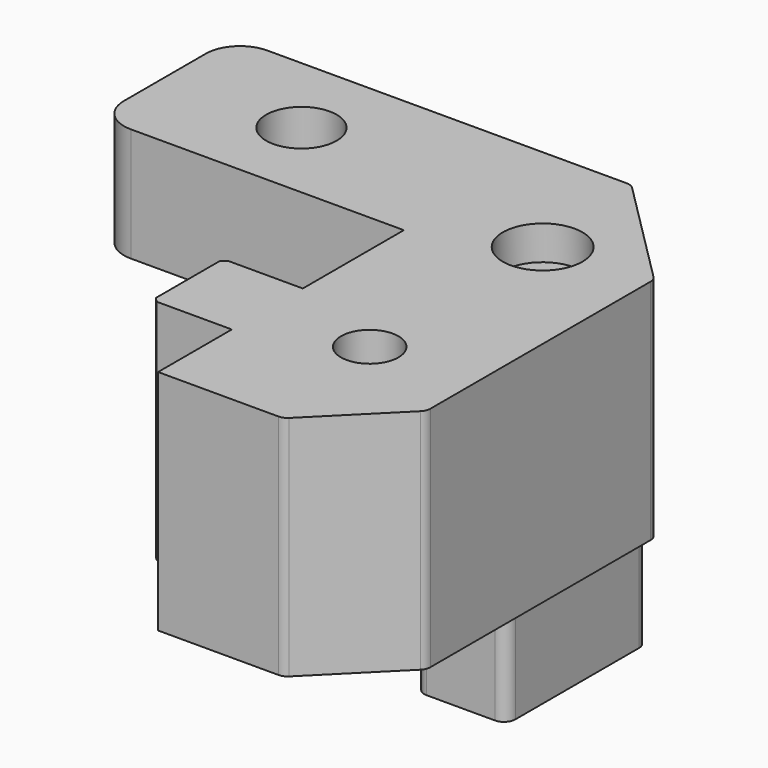
from build123d import *

# Parameters (mm, degrees)
CYLINDER005_R     = 1.65
CYLINDER005_DEPTH = 40
CYLINDER001_R     = 2.525
CYLINDER001_DEPTH = 35
CYLINDER006_R     = 3.5
CYLINDER006_DEPTH = 10
CYLINDER_R        = 3.1
CYLINDER_DEPTH    = 15
BOX001_W          = 18
BOX001_H          = 42
BOX001_DEPTH      = 20
CHAMFER013_SIZE   = 7
CHAMFER016_SIZE   = 10
FILLET002_R       = 1
BOX002_W          = 7
BOX002_H          = 7.8
BOX002_DEPTH      = 20
CHAMFER011_SIZE   = 0.4
BOX015_W          = 8
BOX015_H          = 20
BOX015_DEPTH      = 12
CHAMFER009_SIZE   = 5
FILLET001_R       = 1
FILLET003_R       = 1
BOX013_W          = 7.8
BOX013_H          = 15
BOX013_DEPTH      = 1
BOX011_W          = 27
BOX011_H          = 15
BOX011_DEPTH      = 10
FILLET_R          = 3


with BuildPart() as cylinder005:
    # Cylinder005 → Cylinder005 (new body)
    with BuildSketch(Plane(origin=(9, 34, 3), x_dir=(1, 0, 0), z_dir=(0, 0, 1))):
        Circle(CYLINDER005_R)
    extrude(amount=CYLINDER005_DEPTH)


with BuildPart() as cylinder001:
    # Cylinder001 → Cylinder001 (new body)
    with BuildSketch(Plane(origin=(9, 15, 13), x_dir=(1, 0, 0), z_dir=(0, 0, 1))):
        Circle(CYLINDER001_R)
    extrude(amount=CYLINDER001_DEPTH)


with BuildPart() as cylinder006:
    # Cylinder006 → Cylinder006 (new body)
    with BuildSketch(Plane(origin=(9, 34, 37), x_dir=(1, 0, 0), z_dir=(0, 0, 1))):
        Circle(CYLINDER006_R)
    extrude(amount=CYLINDER006_DEPTH)


with BuildPart() as cylinder:
    # Cylinder → Cylinder (new body)
    with BuildSketch(Plane(origin=(-15, 37.5, 27), x_dir=(1, 0, 0), z_dir=(0, 0, 1))):
        Circle(CYLINDER_R)
    extrude(amount=CYLINDER_DEPTH)


with BuildPart() as fillet002:
    # Box001 → Box001 (new body)
    with BuildSketch(Plane(origin=(0, 3, 20), x_dir=(1, 0, 0), z_dir=(0, 0, 1))):
        with Locations((9, 21)):
            Rectangle(BOX001_W, BOX001_H)
    extrude(amount=BOX001_DEPTH)

    # Chamfer013
    chamfer013_edges = [fillet002.edges().sort_by_distance(p)[0] for p in [
        (18, 3, 30),
    ]]
    chamfer(chamfer013_edges, length=CHAMFER013_SIZE)

    # Chamfer016
    chamfer016_edges = [fillet002.edges().sort_by_distance(p)[0] for p in [
        (18, 45, 30),
    ]]
    chamfer(chamfer016_edges, length=CHAMFER016_SIZE)

    # Fillet002
    fillet002_edges = [fillet002.edges().sort_by_distance(p)[0] for p in [
        (18, 35, 30),
        (18, 10, 30),
        (8, 45, 30),
        (11, 3, 30),
    ]]
    fillet(fillet002_edges, radius=FILLET002_R)


with BuildPart() as chamfer011:
    # Box002 → Box002 (new body)
    with BuildSketch(Plane(origin=(-7, 11.1, 20), x_dir=(1, 0, 0), z_dir=(0, 0, 1))):
        with Locations((3.5, 3.9)):
            Rectangle(BOX002_W, BOX002_H)
    extrude(amount=BOX002_DEPTH)

    # Chamfer011
    chamfer011_edges = [chamfer011.edges().sort_by_distance(p)[0] for p in [
        (-7, 11.1, 30),
        (-7, 18.9, 30),
    ]]
    chamfer(chamfer011_edges, length=CHAMFER011_SIZE)


with BuildPart() as fillet003:
    # Box015 → Box015 (new body)
    with BuildSketch(Plane(origin=(7, 25, 8), x_dir=(1, 0, 0), z_dir=(0, 0, 1))):
        with Locations((4, 10)):
            Rectangle(BOX015_W, BOX015_H)
    extrude(amount=BOX015_DEPTH)

    # Chamfer009
    chamfer009_edges = [fillet003.edges().sort_by_distance(p)[0] for p in [
        (15, 45, 14),
    ]]
    chamfer(chamfer009_edges, length=CHAMFER009_SIZE)

    # Fillet001
    fillet001_edges = [fillet003.edges().sort_by_distance(p)[0] for p in [
        (15, 40, 14),
        (15, 25, 14),
        (7, 25, 14),
        (7, 45, 14),
    ]]
    fillet(fillet001_edges, radius=FILLET001_R)


with BuildPart() as fillet003_1:
    # Fillet001 placement: moved
    add(fillet003.part.moved(Location((-2, 0, 0))))

    # Fillet003
    fillet003_edges = [fillet003_1.edges().sort_by_distance(p)[0] for p in [
        (8, 45, 14),
    ]]
    fillet(fillet003_edges, radius=FILLET003_R)


with BuildPart() as cube013:
    # Box013 → Box013 (new body)
    with BuildSketch(Plane(origin=(-18.9, 30, 29), x_dir=(1, 0, 0), z_dir=(0, 0, 1))):
        with Locations((3.9, 7.5)):
            Rectangle(BOX013_W, BOX013_H)
    extrude(amount=BOX013_DEPTH)


with BuildPart() as cut002002002007004:
    # Box011 → Box011 (new body)
    with BuildSketch(Plane(origin=(-27, 30, 30), x_dir=(1, 0, 0), z_dir=(0, 0, 1))):
        with Locations((13.5, 7.5)):
            Rectangle(BOX011_W, BOX011_H)
    extrude(amount=BOX011_DEPTH)

    # Fillet
    fillet_edges = [cut002002002007004.edges().sort_by_distance(p)[0] for p in [
        (-27, 30, 35),
        (-27, 45, 35),
    ]]
    fillet(fillet_edges, radius=FILLET_R)

    # Fusion: union Cube013
    add(cube013.part)

    # Fusion006004: union Fillet002, Chamfer011, Fillet003
    add(fillet002.part)
    add(chamfer011.part)
    add(fillet003_1.part)

    # Cut: cut Cylinder
    add(cylinder.part, mode=Mode.SUBTRACT)

    # Cut002002002007002: cut Cylinder006
    add(cylinder006.part, mode=Mode.SUBTRACT)

    # Cut002002002007003: cut Cylinder001
    add(cylinder001.part, mode=Mode.SUBTRACT)

    # Cut002002002007004: cut Cylinder005
    add(cylinder005.part, mode=Mode.SUBTRACT)


solid = cut002002002007004.part
